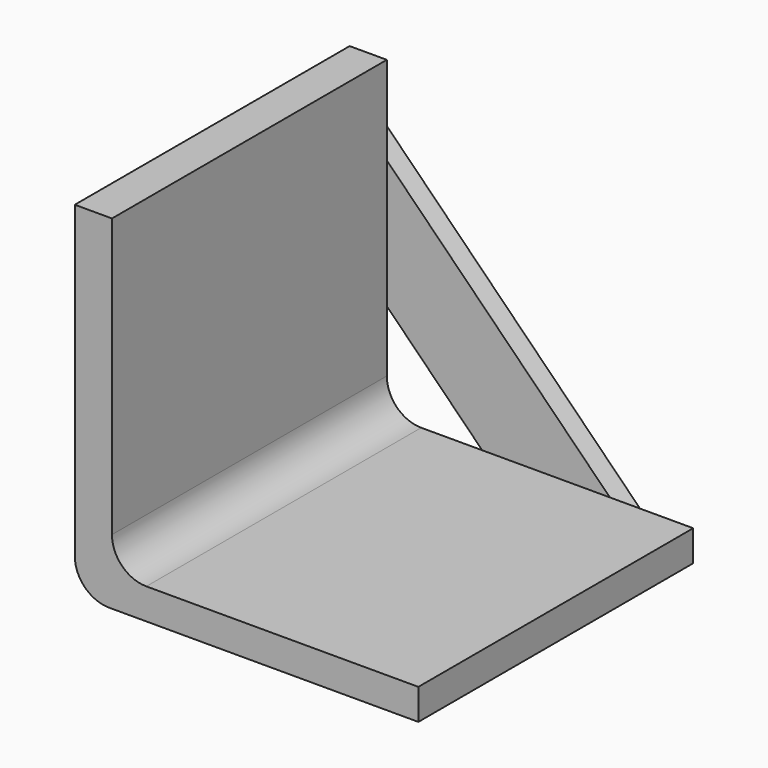
from build123d import *

# Parameters (mm, degrees)
F1_DEPTH = 100
F3_DEPTH = 6


with BuildPart() as f1:
    # F0 (on Front) → F1 (new body)
    with BuildSketch(Plane.XZ):
        with BuildLine():
            Line((10.822058, 100), (0, 100))
            Line((0, 100), (0, 10))
            ThreePointArc((0, 10), (2.928932, 2.928932), (10, 0))
            Line((10, 0), (100, 0))
            Line((100, 0), (100, 8.984357))
            Line((100, 8.984357), (20.822058, 8.984357))
            ThreePointArc((20.822058, 8.984357), (13.75099, 11.913289), (10.822058, 18.984357))
            Line((10.822058, 18.984357), (10.822058, 100))
        make_face()
    extrude(amount=F1_DEPTH)

    # F2 (on Front) → F3 (join)
    with BuildSketch(Plane.XZ):
        Polygon((47.518641, 0), (84.681243, 0), (0, 85.105775), (0, 47.756866), align=None)
    extrude(amount=-F3_DEPTH)


solid = f1.part
